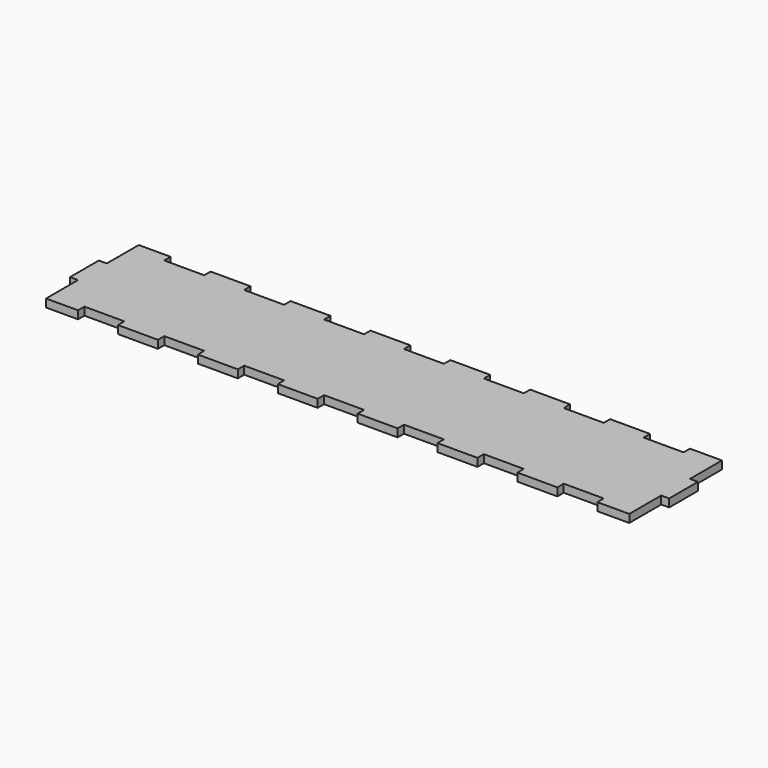
from build123d import *

# Parameters (mm, degrees)
F0_W     = 300
F0_H     = 58
F1_DEPTH = 4
F2_W     = 20
F2_H     = 4
F2_H_2   = 4.292091
F2_W_2   = 4
F2_H_3   = 20
F3_DEPTH = 4


with BuildPart() as f1:
    # F0 (on Top) → F1 (new body)
    with BuildSketch(Plane.XY):
        with Locations((-150, 29)):
            Rectangle(F0_W, F0_H)
    extrude(amount=F1_DEPTH)

    # F2 (on face) → F3 (cut)
    with BuildSketch(Plane.XY.offset(4)):
        with Locations((-270, 2)):
            Rectangle(F2_W, F2_H)
        with Locations((-150, 2)):
            Rectangle(F2_W, F2_H)
        with Locations((-110, 2)):
            Rectangle(F2_W, F2_H)
        with Locations((-70, 2)):
            Rectangle(F2_W, F2_H)
        with Locations((-30, 2)):
            Rectangle(F2_W, F2_H)
        with Locations((-230, 2)):
            Rectangle(F2_W, F2_H)
        with Locations((-190, 2)):
            Rectangle(F2_W, F2_H)
        with Locations((-270, 56)):
            Rectangle(F2_W, F2_H)
        with Locations((-230, 56)):
            Rectangle(F2_W, F2_H)
        with Locations((-190, 56)):
            Rectangle(F2_W, F2_H)
        with Locations((-150, 56)):
            Rectangle(F2_W, F2_H)
        with Locations((-110, 56)):
            Rectangle(F2_W, F2_H)
        with Locations((-70, 56)):
            Rectangle(F2_W, F2_H)
        with Locations((-30, 56.146045)):
            Rectangle(F2_W, F2_H_2)
        with Locations((-2, 48)):
            Rectangle(F2_W_2, F2_H_3)
        with Locations((-2, 10)):
            Rectangle(F2_W_2, F2_H_3)
        with Locations((-298, 48)):
            Rectangle(F2_W_2, F2_H_3)
        with Locations((-298, 10)):
            Rectangle(F2_W_2, F2_H_3)
    extrude(amount=-F3_DEPTH, mode=Mode.SUBTRACT)


solid = f1.part
